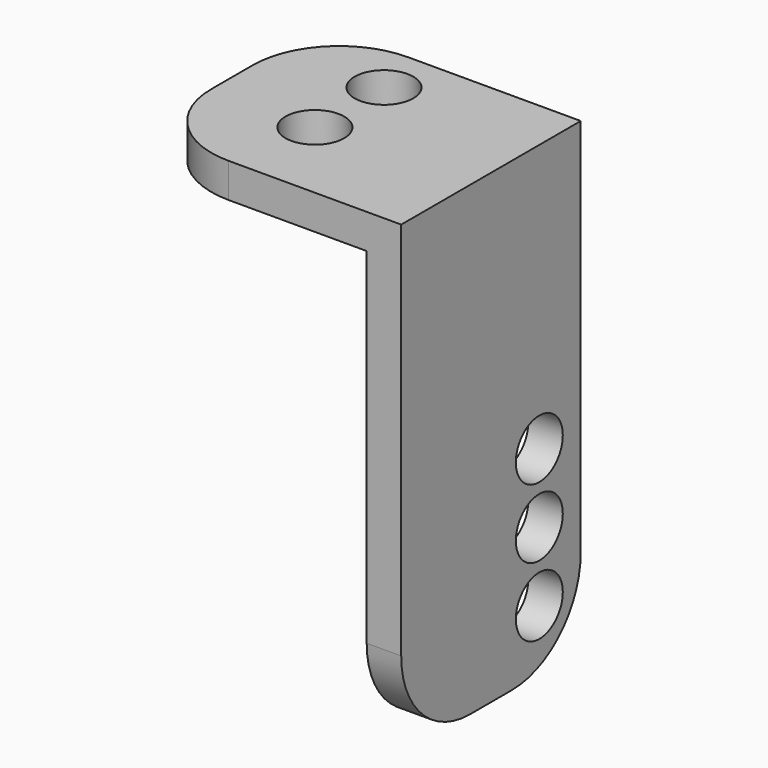
from build123d import *

# Parameters (mm, degrees)
F0_W     = 2
F0_H     = 20
F0_W_2   = 13
F1_DEPTH = 2
F2_D     = 3.4
F3_DEPTH = 25
F5_D     = 3.4
F6_DEPTH = 7
F7_R     = 5


with BuildPart() as f1:
    # F0 (on Top) → F1 (new body)
    with BuildSketch(Plane.XY):
        with Locations((6.5, 0)):
            Rectangle(F0_W, F0_H)
        with Locations((-1, 0)):
            Rectangle(F0_W_2, F0_H)
    extrude(amount=F1_DEPTH)

    # F2 (through all)
    with Locations(Plane(origin=(0, 0, 0), x_dir=(1, 0, 0), z_dir=(0, 0, -1))):
        with Locations((-1.5, -5), (-1.5, 0), (-1.5, 5)):
            Hole(F2_D / 2)

    # F0 (on Top) → F3 (join)
    with BuildSketch(Plane.XY):
        with Locations((6.5, 0)):
            Rectangle(F0_W, F0_H)
    extrude(amount=-F3_DEPTH)

    # F5 (through all)
    with Locations(Plane(origin=(5.5, 0, 0), x_dir=(0, -1, 0), z_dir=(-1, 0, 0))):
        with Locations((0, -17.5), (0, -13.5), (0, -21.5)):
            Hole(F5_D / 2)

    # F6 (cut): a face of the model
    f6_faces = [f1.faces().sort_by_distance(p)[0] for p in [
        (0, 10, 1.6911310958),
    ]]
    extrude(f6_faces, amount=-F6_DEPTH, mode=Mode.SUBTRACT)

    # F7
    f7_edges = [f1.edges().sort_by_distance(p)[0] for p in [
        (6.5, 3, -25),
        (6.5, -10, -25),
        (-7.5, -10, 1),
        (-7.5, 3, 1),
    ]]
    fillet(f7_edges, radius=F7_R)


solid = f1.part
